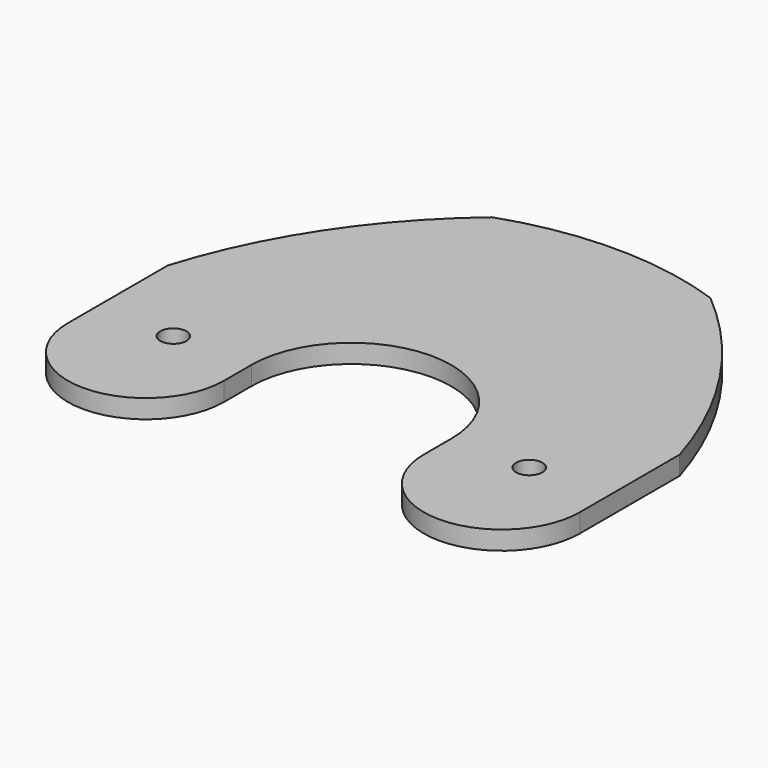
from build123d import *

# Parameters (mm, degrees)
F0_R     = 2.1
F1_DEPTH = 3


with BuildPart() as f1:
    # F0 (on Top) → F1 (new body)
    with BuildSketch(Plane.XY):
        with BuildLine():
            Line((-41, 14.5), (-41, -5.5))
            ThreePointArc((-41, -5.5), (-28.5, -18), (-16, -5.5))
            Line((-16, -5.5), (-16, 0))
            ThreePointArc((-16, 0), (0, 16), (16, 0))
            Line((16, 0), (16, -5.5))
            ThreePointArc((16, -5.5), (28.5, -18), (41, -5.5))
            Line((41, -5.5), (41, 14.5))
            ThreePointArc((41, 14.5), (31.825248, 33.967169), (17.5, 50.027492))
            ThreePointArc((17.5, 50.027492), (0, 53), (-17.5, 50.027492))
            ThreePointArc((-17.5, 50.027492), (-31.825248, 33.967169), (-41, 14.5))
        make_face()
        with Locations((-28.5, 0)):
            Circle(F0_R, mode=Mode.SUBTRACT)
        with Locations((28.5, 0)):
            Circle(F0_R, mode=Mode.SUBTRACT)
    extrude(amount=F1_DEPTH)


solid = f1.part
